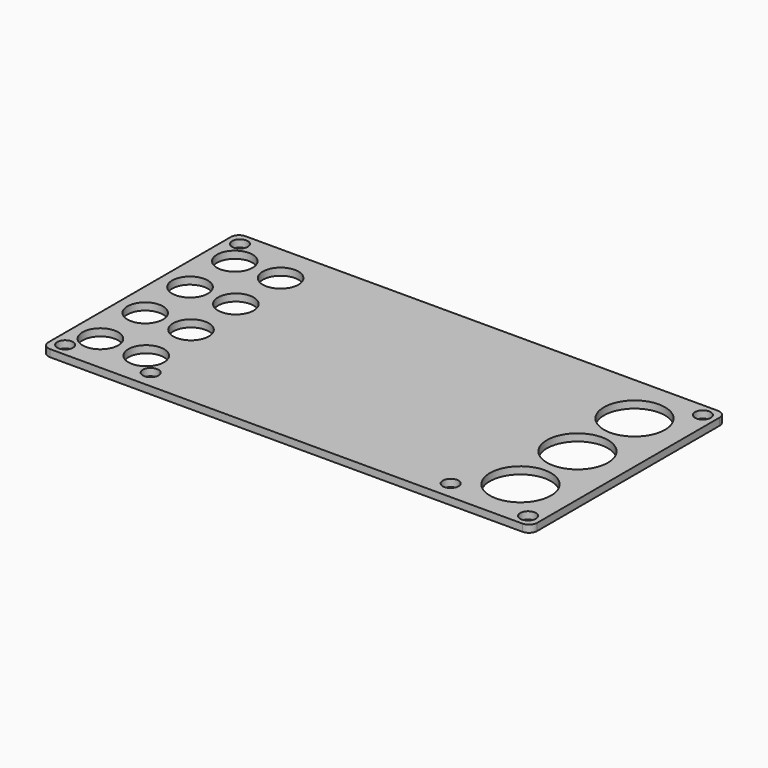
from build123d import *

# Parameters (mm, degrees)
F0_W      = 304.8
F0_H      = 152.4
F1_DEPTH  = 4.4958
F2_R      = 5.08
F3_R      = 4.8895
F4_DEPTH  = 4.4968
F5_R      = 11.1125
F6_DEPTH  = 4.4968
F7_R      = 19.05
F8_DEPTH  = 4.4968
F9_R      = 4.8895
F10_DEPTH = 4.4968


with BuildPart() as f1:
    # F0 (on Top) → F1 (new body)
    with BuildSketch(Plane.XY):
        Rectangle(F0_W, F0_H)
    extrude(amount=F1_DEPTH)

    # F2
    f2_edges = [f1.edges().sort_by_distance(p)[0] for p in [
        (-152.4, 76.2, 2.2479),
        (-152.4, -76.2, 2.2479),
        (152.4, -76.2, 2.2479),
        (152.4, 76.2, 2.2479),
    ]]
    fillet(f2_edges, radius=F2_R)

    # F3 (on face) → F4 (cut, through all)
    with BuildSketch(Plane.XY.offset(4.4958)):
        with Locations((-144.3355, 68.1355)):
            Circle(F3_R)
        with Locations((-144.3355, -68.1355)):
            Circle(F3_R)
        with Locations((144.3355, -68.1355)):
            Circle(F3_R)
        with Locations((144.3355, 68.1355)):
            Circle(F3_R)
    extrude(amount=-F4_DEPTH, mode=Mode.SUBTRACT)

    # F5 (on face) → F6 (cut, through all)
    with BuildSketch(Plane.XY.offset(4.4958)):
        with Locations((-106.3625, 52.3875)):
            Circle(F5_R)
        with Locations((-134.9375, 52.3875)):
            Circle(F5_R)
        with Locations((-134.9375, 17.4625)):
            Circle(F5_R)
        with Locations((-106.3625, 17.467218)):
            Circle(F5_R)
        with Locations((-134.9375, -17.4625)):
            Circle(F5_R)
        with Locations((-106.3625, -17.4625)):
            Circle(F5_R)
        with Locations((-134.9375, -52.3875)):
            Circle(F5_R)
        with Locations((-106.3625, -52.3875)):
            Circle(F5_R)
    extrude(amount=-F6_DEPTH, mode=Mode.SUBTRACT)

    # F7 (on face) → F8 (cut, through all)
    with BuildSketch(Plane.XY.offset(4.4958)):
        with Locations((120.65, 44.45)):
            Circle(F7_R)
        with Locations((120.65, 0)):
            Circle(F7_R)
        with Locations((120.65, -44.45)):
            Circle(F7_R)
    extrude(amount=-F8_DEPTH, mode=Mode.SUBTRACT)

    # F9 (on face) → F10 (cut, through all)
    with BuildSketch(Plane.XY.offset(4.4958)):
        with Locations((-93.5355, -64.9605)):
            Circle(F9_R)
        with Locations((93.5355, -64.9605)):
            Circle(F9_R)
    extrude(amount=-F10_DEPTH, mode=Mode.SUBTRACT)


solid = f1.part
